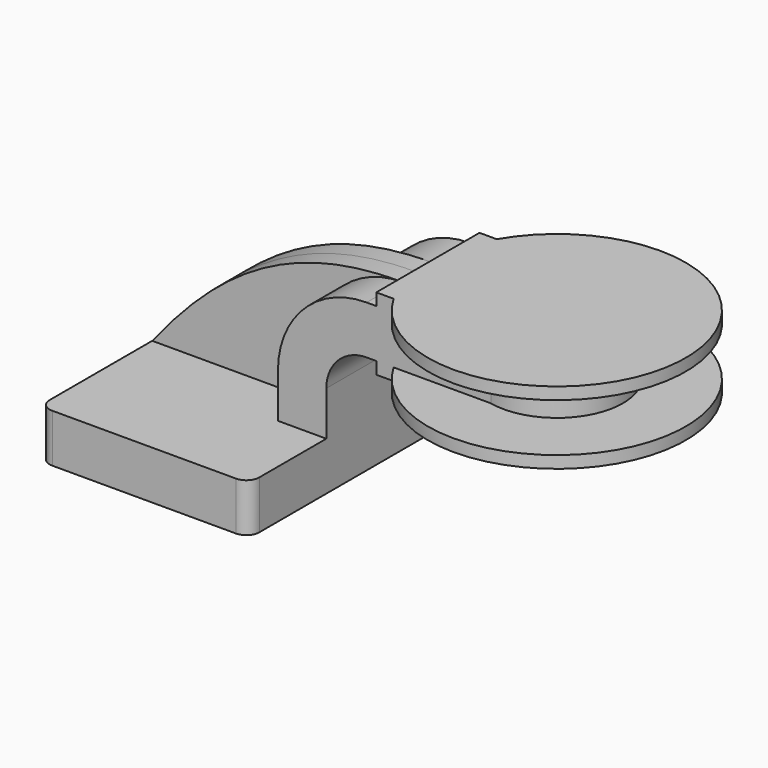
from build123d import *

# Parameters (mm, degrees)
F1_DEPTH = 63.5
F0_W     = 24.7683575517
F0_H     = 19.05
F0_H_2   = 4.7498
F0_H_3   = 4.7752
F2_DEPTH = 25.4
F3_DEPTH = 7.9375
F5_R     = 5.08


with BuildPart() as f1:
    # F0 (on Front) → F1 (new body, symmetric)
    with BuildSketch(Plane.XZ):
        Polygon((22.225, 9.525), (-41.275, 9.525), (-41.275, -9.525), (41.275, -9.525), (41.275, 9.525), align=None)
    extrude(amount=F1_DEPTH, both=True)

    # F0 (on Front) → F2 (join, symmetric)
    with BuildSketch(Plane.XZ):
        with BuildLine():
            Line((22.225, 27.0002), (22.225, 9.525))
            Line((22.225, 9.525), (41.275, 9.525))
            Line((41.275, 9.525), (41.275, 27.0002))
            ThreePointArc((41.275, 27.0002), (45.9246798487, 38.2255201513), (57.15, 42.8752))
            Line((57.15, 42.8752), (60.9566424483, 42.8752))
            Line((60.9566424483, 42.8752), (60.9566424483, 61.9252))
            Line((60.9566424483, 61.9252), (57.15, 61.9252))
            ThreePointArc((57.15, 61.9252), (32.4542956671, 51.6959043329), (22.225, 27.0002))
        make_face()
        with Locations((73.3408212242, 52.4002)):
            Rectangle(F0_W, F0_H)
        with Locations((73.3408212242, 64.3001)):
            Rectangle(F0_W, F0_H_2)
        with Locations((73.3408212242, 40.4876)):
            Rectangle(F0_W, F0_H_3)
        Polygon((85.725, 66.675), (85.725, 61.9252), (85.725, 42.8752), (85.725, 38.1), (111.7566424483, 38.1), (111.7566424483, 66.675), align=None)
    extrude(amount=F2_DEPTH, both=True)

    # F0 (on Front) → F3 (join, symmetric)
    with BuildSketch(Plane.XZ):
        with BuildLine():
            add(Edge.make_bspline(
                [(-41.275, 9.525), (-16.9699750841, 40.0587767363), (10.705399327, 62.3685158789), (57.15, 61.9252)],
                knots=[0, 0, 0, 0, 111.5045361635, 111.5045361635, 111.5045361635, 111.5045361635], degree=3))
            Line((-41.275, 9.525), (22.225, 9.525))
            Line((22.225, 9.525), (22.225, 27.0002))
            ThreePointArc((22.225, 27.0002), (32.4542956671, 51.6959043329), (57.15, 61.9252))
        make_face()
    extrude(amount=F3_DEPTH, both=True)

    # F0 (on Front) → F4 (revolve)
    with BuildSketch(Plane.XZ):
        with Locations((73.3408212242, 64.3001)):
            Rectangle(F0_W, F0_H_2)
        Polygon((85.725, 66.675), (85.725, 61.9252), (85.725, 42.8752), (85.725, 38.1), (111.7566424483, 38.1), (111.7566424483, 66.675), align=None)
        with Locations((73.3408212242, 40.4876)):
            Rectangle(F0_W, F0_H_3)
    revolve(axis=Axis((111.7566424483, 0, 52.3875), (0, 0, 1)))

    # F5
    f5_edges = [f1.edges().sort_by_distance(p)[0] for p in [
        (41.275, -63.5, 0),
        (-41.275, -63.5, 0),
        (-41.275, 63.5, 0),
        (41.275, 63.5, 0),
    ]]
    fillet(f5_edges, radius=F5_R)


solid = f1.part
